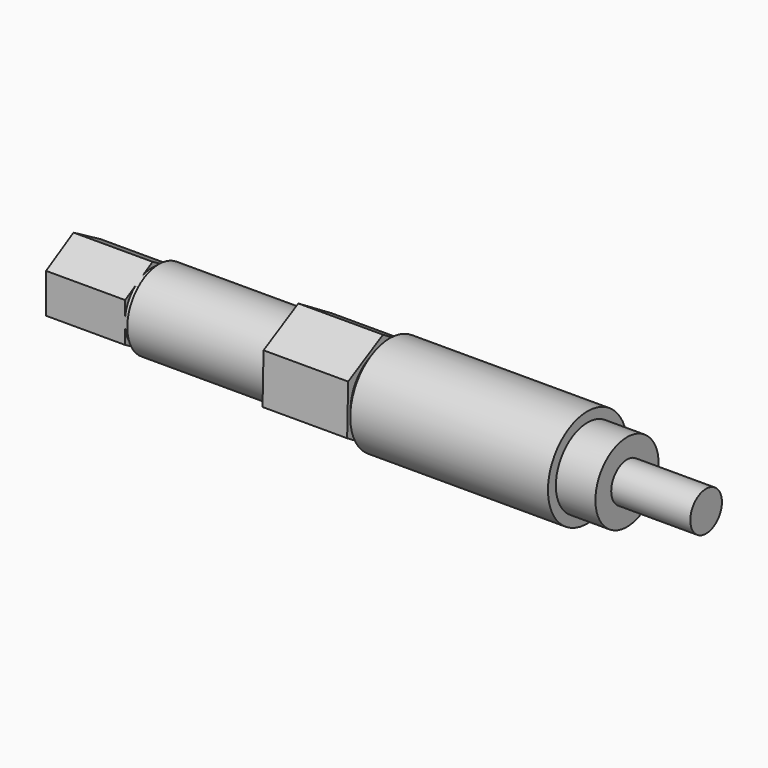
from build123d import *

# Parameters (mm, degrees)
F3_DEPTH = 13.716
F5_DEPTH = 13.589


with BuildPart() as f1:
    # F0 (on Front) → F1 (revolve)
    with BuildSketch(Plane.XZ):
        Polygon((0, 6.35), (0, 0), (101.6, 0), (101.6, 3.175), (88.9, 3.175), (88.9, 6.35), (82.55, 6.35), (82.55, 7.9375), (50.8, 7.9375), (50.8, 6.2865), (49.53, 6.2865), (49.53, 7.9375), (35.941, 7.9375), (35.941, 6.35), (13.716, 6.35), (13.716, 5.5626), (12.7, 5.5626), (12.7, 6.35), align=None)
    revolve(axis=Axis((121.0162361984, 0, 0), (1, 0, 0)))

    # F2 (on face) → F3 (cut)
    with BuildSketch(Plane(origin=(0, 0, 0), x_dir=(0, -1, 0), z_dir=(-1, 0, 0))):
        with BuildLine():
            Line((0, 6.35), (5.499261314, 3.175))
            ThreePointArc((5.499261314, 3.175), (3.175, 5.499261314), (0, 6.35))
        make_face()
        with BuildLine():
            Line((5.499261314, 3.175), (5.499261314, -3.175))
            ThreePointArc((5.499261314, -3.175), (6.1336289969, -1.6435009364), (6.35, 0))
            ThreePointArc((6.35, 0), (6.1336289969, 1.6435009364), (5.499261314, 3.175))
        make_face()
        with BuildLine():
            Line((5.499261314, -3.175), (0, -6.35))
            ThreePointArc((0, -6.35), (3.175, -5.499261314), (5.499261314, -3.175))
        make_face()
        with BuildLine():
            ThreePointArc((-5.499261314, -3.175), (-3.175, -5.499261314), (0, -6.35))
            Line((0, -6.35), (-5.499261314, -3.175))
        make_face()
        with BuildLine():
            ThreePointArc((-5.499261314, 3.175), (-6.35, 0), (-5.499261314, -3.175))
            Line((-5.499261314, -3.175), (-5.499261314, 3.175))
        make_face()
        with BuildLine():
            ThreePointArc((0, 6.35), (-3.175, 5.499261314), (-5.499261314, 3.175))
            Line((-5.499261314, 3.175), (0, 6.35))
        make_face()
    extrude(amount=-F3_DEPTH, mode=Mode.SUBTRACT)

    # F4 (on face) → F5 (cut, through all)
    with BuildSketch(Plane(origin=(35.941, 0, 0), x_dir=(0, -1, 0), z_dir=(-1, 0, 0))):
        with BuildLine():
            Line((6.7679427578, 4.1471504768), (6.9755090451, -3.7876351213))
            ThreePointArc((6.9755090451, -3.7876351213), (7.6932440913, -1.953945138), (7.9375, 0))
            ThreePointArc((7.9375, 0), (7.6395173895, 2.1544559185), (6.7679427578, 4.1471504768))
        make_face()
        with BuildLine():
            ThreePointArc((6.7679427578, 4.1471504768), (3.7876351213, 6.9755090451), (-0.2075662873, 7.934785598))
            Line((-0.2075662873, 7.934785598), (6.7679427578, 4.1471504768))
        make_face()
        with BuildLine():
            ThreePointArc((-0.2075662873, 7.934785598), (-4.1471504768, 6.7679427578), (-6.9755090451, 3.7876351213))
            Line((-6.9755090451, 3.7876351213), (-0.2075662873, 7.934785598))
        make_face()
        with BuildLine():
            ThreePointArc((-6.9755090451, 3.7876351213), (-7.934785598, -0.2075662873), (-6.7679427578, -4.1471504768))
            Line((-6.7679427578, -4.1471504768), (-6.9755090451, 3.7876351213))
        make_face()
        with BuildLine():
            Line((6.9755090451, -3.7876351213), (0.2075662873, -7.934785598))
            ThreePointArc((0.2075662873, -7.934785598), (4.1471504768, -6.7679427578), (6.9755090451, -3.7876351213))
        make_face()
        with BuildLine():
            Line((0.2075662873, -7.934785598), (-6.7679427578, -4.1471504768))
            ThreePointArc((-6.7679427578, -4.1471504768), (-3.7876351213, -6.9755090451), (0.2075662873, -7.934785598))
        make_face()
    extrude(amount=-F5_DEPTH, mode=Mode.SUBTRACT)


solid = f1.part
